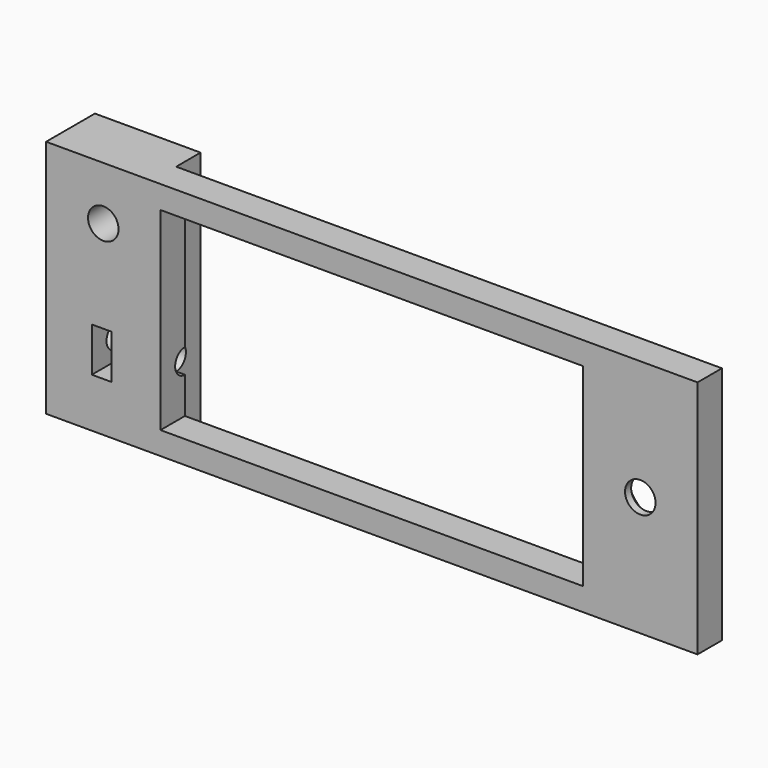
from build123d import *

# Parameters (mm, degrees)
F0_W     = 85.4
F0_H     = 31.4
F0_W_2   = 2.6
F0_H_2   = 5.8
F0_R     = 2
F0_W_3   = 55.4
F0_H_3   = 25.4
F1_DEPTH = 4
F2_W     = 13.854876
F2_H     = 31.4
F2_W_2   = 2.6
F2_H_2   = 5.8
F2_R     = 2
F3_DEPTH = 4
F4_R     = 1.6
F5_DEPTH = 25
F6_SIZE  = 3


with BuildPart() as f1:
    # F0 (on Front) → F1 (new body)
    with BuildSketch(Plane.XZ):
        Rectangle(F0_W, F0_H)
        with Locations((-35.4, -6.336361)):
            Rectangle(F0_W_2, F0_H_2, mode=Mode.SUBTRACT)
        with Locations((-35.2, 8.7)):
            Circle(F0_R, mode=Mode.SUBTRACT)
        Rectangle(F0_W_3, F0_H_3, mode=Mode.SUBTRACT)
        with Locations((35.2, 0)):
            Circle(F0_R, mode=Mode.SUBTRACT)
    extrude(amount=F1_DEPTH)

    # F2 (on face) → F3 (join)
    with BuildSketch(Plane(origin=(0, 0, 0), x_dir=(-1, 0, 0), z_dir=(0, 1, 0))):
        with Locations((35.772562, 0)):
            Rectangle(F2_W, F2_H)
        with Locations((35.4, -6.336361)):
            Rectangle(F2_W_2, F2_H_2, mode=Mode.SUBTRACT)
        with Locations((35.2, 8.7)):
            Circle(F2_R, mode=Mode.SUBTRACT)
    extrude(amount=F3_DEPTH)

    # F4 (on face) → F5 (cut)
    with BuildSketch(Plane(origin=(-42.7, 0, 0), x_dir=(0, -1, 0), z_dir=(-1, 0, 0))):
        with Locations((0, -6.336361)):
            Circle(F4_R)
    extrude(amount=-F5_DEPTH, mode=Mode.SUBTRACT)

    # F6
    f6_edges = [f1.edges().sort_by_distance(p)[0] for p in [
        (-33.2, 4, 8.7),
        (33.2, 0, 0),
    ]]
    chamfer(f6_edges, length=F6_SIZE)


solid = f1.part
